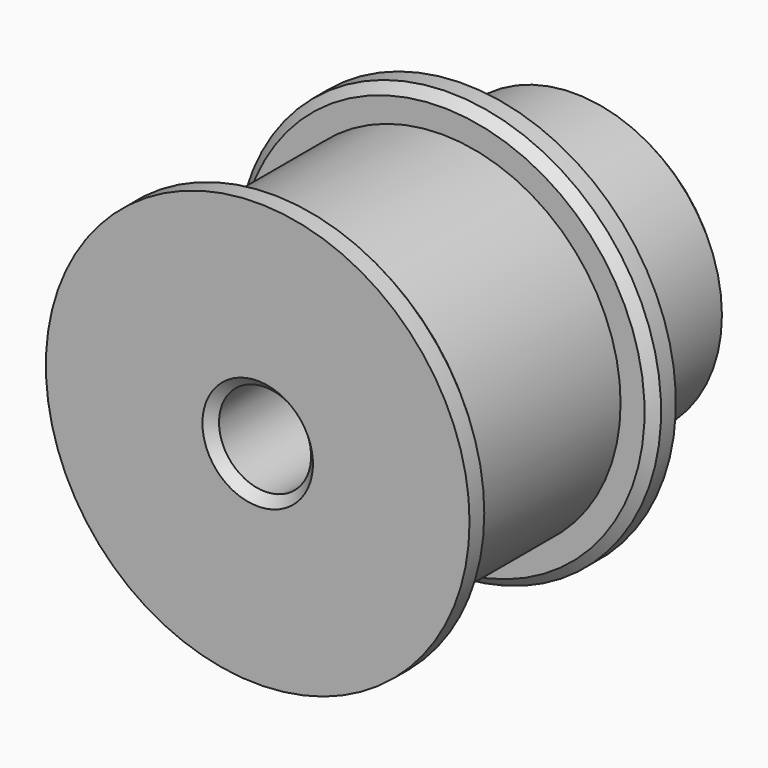
from build123d import *

# Parameters (mm, degrees)
F0_R     = 9.7
F1_DEPTH = 5.5
F2_R     = 11.5
F3_DEPTH = 1.5
F4_R     = 11.5
F5_DEPTH = 1.5
F6_R     = 8
F7_DEPTH = 8
F8_R     = 2.5
F9_DEPTH = 22.001
F10_SIZE = 0.5


with BuildPart() as f1:
    # F0 (on Front) → F1 (new body, symmetric)
    with BuildSketch(Plane.XZ):
        Circle(F0_R)
    extrude(amount=F1_DEPTH, both=True)

    # F2 (on face) → F3 (join)
    with BuildSketch(Plane.XZ.offset(5.5)):
        Circle(F2_R)
    extrude(amount=F3_DEPTH)

    # F4 (on face) → F5 (join)
    with BuildSketch(Plane(origin=(0, 5.5, 0), x_dir=(-1, 0, 0), z_dir=(0, 1, 0))):
        Circle(F4_R)
    extrude(amount=F5_DEPTH)

    # F6 (on face) → F7 (join)
    with BuildSketch(Plane(origin=(0, 7, 0), x_dir=(-1, 0, 0), z_dir=(0, 1, 0))):
        Circle(F6_R)
    extrude(amount=F7_DEPTH)

    # F8 (on face) → F9 (cut, through all)
    with BuildSketch(Plane(origin=(0, 15, 0), x_dir=(-1, 0, 0), z_dir=(0, 1, 0))):
        Circle(F8_R)
    extrude(amount=-F9_DEPTH, mode=Mode.SUBTRACT)

    # F10
    f10_edges = [f1.edges().sort_by_distance(p)[0] for p in [
        (2.5, -7, 0),
        (2.5, 15, 0),
        (-11.5, -5.5, 0),
        (11.5, 5.5, 0),
        (8, 15, 0),
    ]]
    chamfer(f10_edges, length=F10_SIZE)


solid = f1.part
